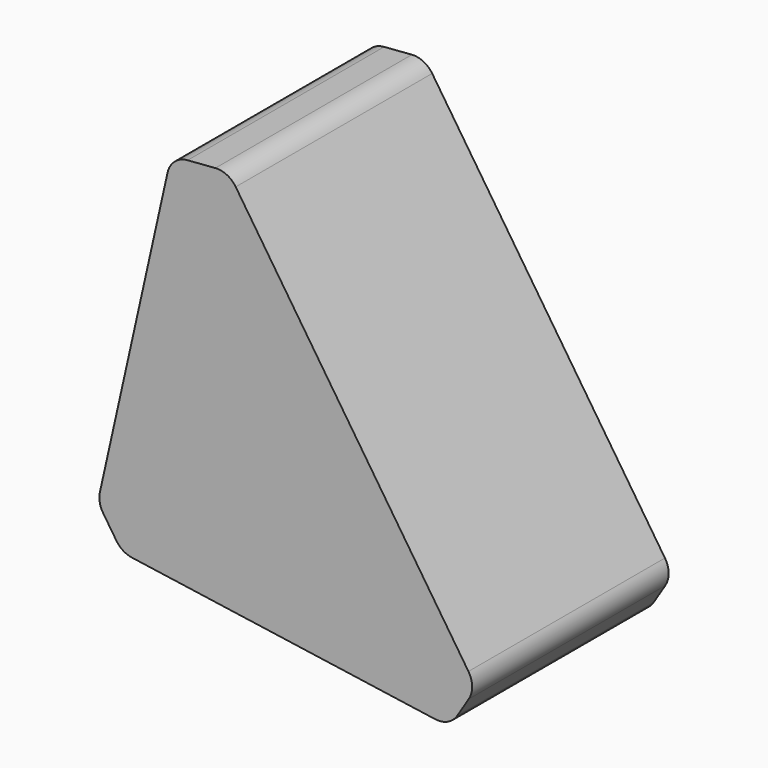
from build123d import *

# Parameters (mm, degrees)
PAD018_DEPTH = 33
FILLET019_R  = 3
FILLET020_R  = 3


with BuildPart() as fillet020:
    # Sketch023 → Pad018 (new body)
    with BuildSketch(Plane(origin=(0, 0, 0), x_dir=(0.848048, 0, 0.529919), z_dir=(0, -1, 0))):
        Polygon((-40.765351, 19.72502), (-40.765351, 12.915253), (-0.082344, -5.035194), (5.261885, -2.605449), (20.317712, 40.085552), (14.098928, 44.660699), align=None)
    extrude(amount=PAD018_DEPTH)

    # Fillet019
    fillet019_edges = [fillet020.edges().sort_by_distance(p)[0] for p in [
        (-4.011709, -16.5, 44.761223),
        (-11.709995, -16.5, 45.345714),
    ]]
    fillet(fillet019_edges, radius=FILLET019_R)

    # Fillet020
    fillet020_edges = [fillet020.edges().sort_by_distance(p)[0] for p in [
        (5.843009, -16.5, 0.578828),
        (2.598414, -16.5, -4.313722),
        (-41.41502, -16.5, -10.649589),
        (-45.023647, -16.5, -4.874579),
    ]]
    fillet(fillet020_edges, radius=FILLET020_R)


with BuildPart() as part_mirroring015:
    # Part__Mirroring015: instance of Fillet020
    add(fillet020.part.mirror(Plane(origin=(0, 0, 0), x_dir=(0, -1, 0), z_dir=(1, 0, 0))))


with BuildPart() as part_mirroring015_1:
    # Part__Mirroring015 placement: moved
    add(part_mirroring015.part.moved(Location((76, 0, 0))))


solid = part_mirroring015_1.part
